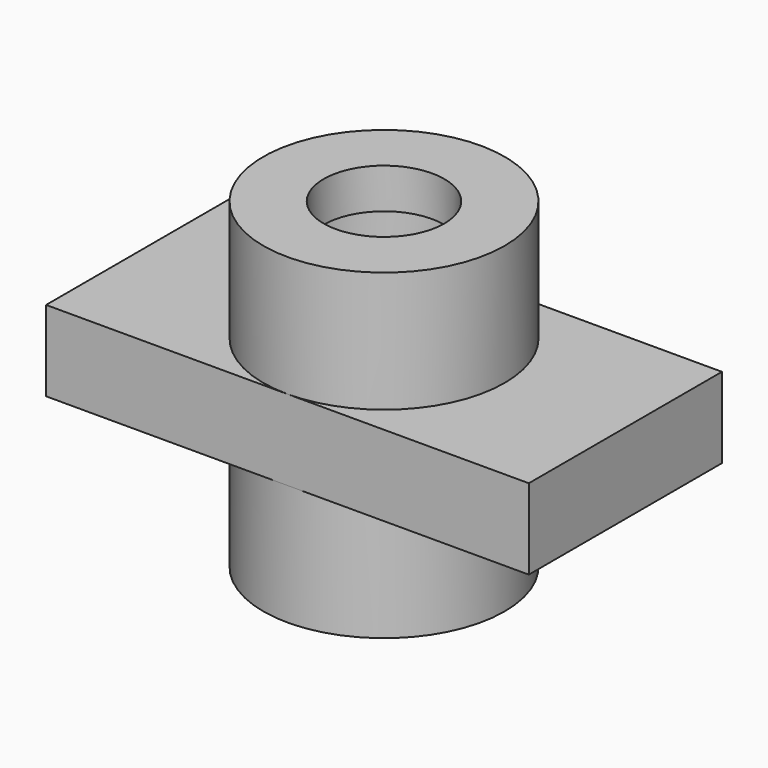
from build123d import *

# Parameters (mm, degrees)
F0_R          = 19.05
F1_DEPTH      = 25.4
F1_DEPTH_BACK = 12.7
F2_R          = 19.05
F2_R_2        = 12.7
F3_DEPTH      = 6.35
F4_R          = 19.05
F5_DEPTH      = 6.35
F6_R          = 9.525
F7_DEPTH      = 50.801
F9_DEPTH      = 6.35


with BuildPart() as f1:
    # F0 (on Top) → F1 (new body, two sides)
    with BuildSketch(Plane.XY) as f1_sk:
        Circle(F0_R)
    extrude(amount=-F1_DEPTH)
    extrude(f1_sk.sketch, amount=F1_DEPTH_BACK)

    # F2 (on face) → F3 (join)
    with BuildSketch(Plane.XY.offset(12.7)):
        Circle(F2_R)
        Circle(F2_R_2, mode=Mode.SUBTRACT)
    extrude(amount=F3_DEPTH)

    # F4 (on face) → F5 (join)
    with BuildSketch(Plane.XY.offset(19.05)):
        Circle(F4_R)
    extrude(amount=F5_DEPTH)

    # F6 (on face) → F7 (cut, through all)
    with BuildSketch(Plane.XY.offset(25.4)):
        Circle(F6_R)
    extrude(amount=-F7_DEPTH, mode=Mode.SUBTRACT)

    # F8 (on Top) → F9 (join, symmetric)
    with BuildSketch(Plane.XY):
        with BuildLine():
            Line((3.68e-08, 19.05), (-38.1, 19.05))
            Line((-38.1, 19.05), (-38.1, -19.05))
            Line((-38.1, -19.05), (3.68e-08, -19.05))
            ThreePointArc((3.68e-08, -19.05), (-19.05, 0), (3.68e-08, 19.05))
        make_face()
        with BuildLine():
            Line((38.1, 19.05), (3.68e-08, 19.05))
            ThreePointArc((3.68e-08, 19.05), (13.4703841946, 13.4703841686), (19.05, 0))
            ThreePointArc((19.05, 0), (13.4703841946, -13.4703841686), (3.68e-08, -19.05))
            Line((3.68e-08, -19.05), (38.1, -19.05))
            Line((38.1, -19.05), (38.1, 19.05))
        make_face()
    extrude(amount=F9_DEPTH, both=True)


solid = f1.part
